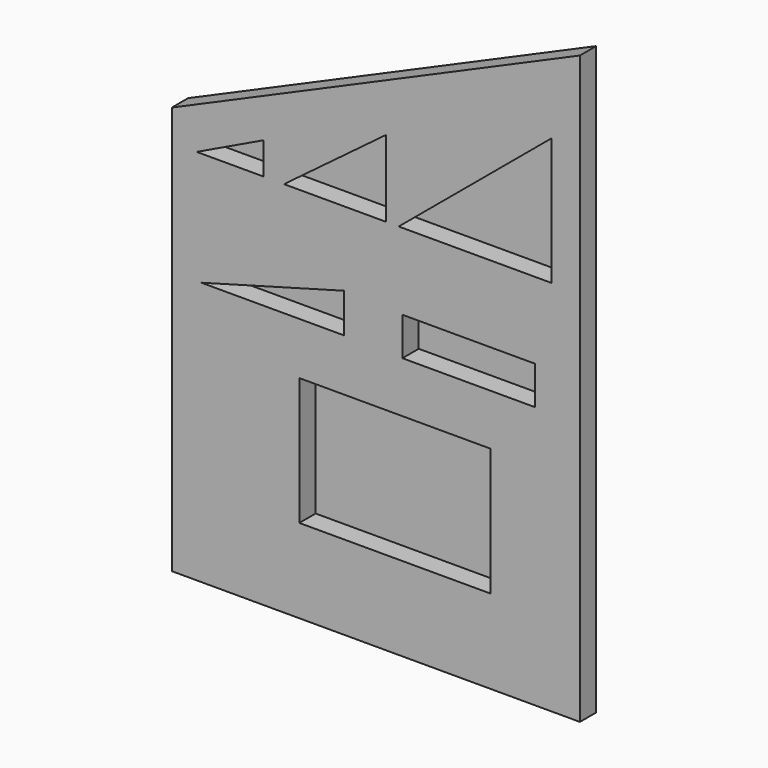
from build123d import *

# Parameters (mm, degrees)
F1_DEPTH = 243.84
F2_W     = 2286
F2_H     = 1524
F2_W_2   = 1583.580732
F2_H_2   = 457.2
F3_DEPTH = 243.80952


with BuildPart() as f1:
    # F0 (on Front) → F1 (new body)
    with BuildSketch(Plane.XZ):
        Polygon((2567.343831, 2502.917757), (-2309.456169, 369.317757), (-2309.456169, -4507.482243), (2567.343831, -4507.482243), align=None)
    extrude(amount=F1_DEPTH)

    # F2 (on face) → F3 (cut)
    with BuildSketch(Plane.XZ.offset(243.84)):
        Polygon((2230.925799, 0), (2230.925799, 1524), (402.125799, 0), align=None)
        Polygon((250.863831, 0), (250.863831, 914.4), (-968.336169, 0), align=None)
        Polygon((-1212.335348, 0), (-1212.335348, 382.37834), (-2011.311769, 0), align=None)
        with Locations((357.543831, -2742.557323)):
            Rectangle(F2_W, F2_H)
        with Locations((1238.420129, -1142.357323)):
            Rectangle(F2_W_2, F2_H_2)
        Polygon((-252.330035, -1358.046293), (-252.330035, -888.432682), (-1956.044436, -1358.046293), align=None)
    extrude(amount=-F3_DEPTH, mode=Mode.SUBTRACT)


solid = f1.part
